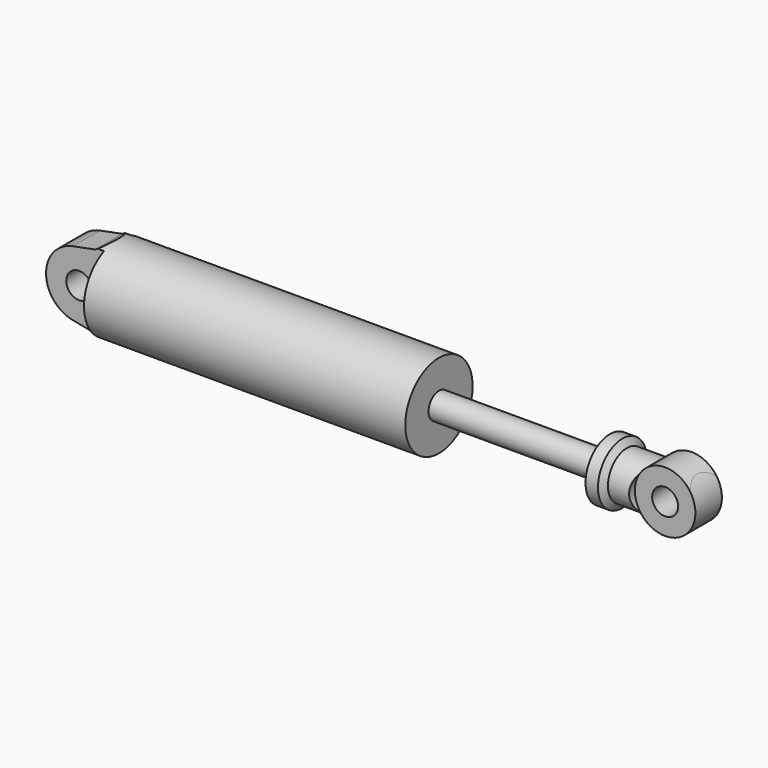
from build123d import *

# Parameters (mm, degrees)
F2_W      = 38.1
F2_H      = 63.5
F3_DEPTH  = 35.56
F4_R      = 7.9375
F5_DEPTH  = 20.828
F6_W      = 25.4
F6_H      = 25.4
F7_DEPTH  = 44.704
F8_R      = 18.542
F9_DEPTH  = 20.32
F11_DEPTH = 12.7
F13_DEPTH = 25.4
F15_DEPTH = 25.4
F16_R     = 7.9375
F17_DEPTH = 35.942


with BuildPart() as f1:
    # F0 (on Front) → F1 (revolve)
    with BuildSketch(Plane.XZ):
        Polygon((232.41, 25.781), (0, 25.781), (0, 0), (409.829, 0), (409.829, 14.605), (347.599, 14.605), (344.805, 18.7325), (337.185, 18.7325), (337.185, 8.001), (232.41, 8.001), align=None)
    revolve(axis=Axis((144.6166912608, 0, 0), (1, 0, 0)))

    # F2 (on face) → F3 (cut)
    with BuildSketch(Plane(origin=(0, 0, 0), x_dir=(0, -1, 0), z_dir=(-1, 0, 0))):
        with Locations((29.464, 0)):
            Rectangle(F2_W, F2_H)
        with Locations((-29.464, 0)):
            Rectangle(F2_W, F2_H)
    extrude(amount=-F3_DEPTH, mode=Mode.SUBTRACT)

    # F4 (on face) → F5 (cut, through all)
    with BuildSketch(Plane(origin=(0, 10.414, 0), x_dir=(-1, 0, 0), z_dir=(0, 1, 0))):
        with BuildLine():
            Line((10.16, 25.781), (-35.56, 25.781))
            Line((-35.56, 25.781), (-30.060738686, 22.606))
            Line((-30.060738686, 22.606), (-16.4254601504, 19.9432935936))
            ThreePointArc((-16.4254601504, 19.9432935936), (0, 0), (-16.4254601504, -19.9432935936))
            Line((-16.4254601504, -19.9432935936), (-30.060738686, -22.606))
            Line((-30.060738686, -22.606), (-35.56, -25.781))
            Line((-35.56, -25.781), (10.16, -25.781))
            Line((10.16, -25.781), (10.16, 25.781))
        make_face()
        with Locations((-20.32, 0)):
            Circle(F4_R)
    extrude(amount=-F5_DEPTH, mode=Mode.SUBTRACT)

    # F6 (on face) → F7 (cut)
    with BuildSketch(Plane.YZ.offset(409.829)):
        with Locations((22.86, 0)):
            Rectangle(F6_W, F6_H)
        with Locations((-22.86, 0)):
            Rectangle(F6_W, F6_H)
    extrude(amount=-F7_DEPTH, mode=Mode.SUBTRACT)

    # F8 (on face) → F9 (join, through all)
    with BuildSketch(Plane(origin=(0, 10.16, 0), x_dir=(-1, 0, 0), z_dir=(0, 1, 0))):
        with Locations((-379.095, 0)):
            Circle(F8_R)
    extrude(amount=-F9_DEPTH)

    # F10 (on Front) → F11 (cut, symmetric)
    with BuildSketch(Plane.XZ):
        with BuildLine():
            Line((409.829, 14.605), (390.5186482351, 14.605))
            ThreePointArc((390.5186482351, 14.605), (397.637, 0), (390.5186482351, -14.605))
            Line((390.5186482351, -14.605), (409.829, -14.605))
            Line((409.829, -14.605), (409.829, 14.605))
        make_face()
    extrude(amount=F11_DEPTH, both=True, mode=Mode.SUBTRACT)

    # F12 (on face) → F13 (cut)
    with BuildSketch(Plane(origin=(0, 10.16, 0), x_dir=(-1, 0, 0), z_dir=(0, 1, 0))):
        with BuildLine():
            ThreePointArc((-365.5518286226, -12.6644491804), (-360.553, 0), (-365.5518286226, 12.6644491804))
            Line((-365.5518286226, 12.6644491804), (-365.5518286226, -12.6644491804))
        make_face()
    extrude(amount=F13_DEPTH, mode=Mode.SUBTRACT)

    # F14 (on face) → F15 (cut)
    with BuildSketch(Plane.XZ.offset(10.16)):
        with BuildLine():
            Line((365.125, -12.192), (365.125, 12.192))
            ThreePointArc((365.125, 12.192), (360.553, 0), (365.125, -12.192))
        make_face()
    extrude(amount=F15_DEPTH, mode=Mode.SUBTRACT)

    # F16 (on face) → F17 (cut, through all)
    with BuildSketch(Plane.XZ.offset(10.16)):
        with Locations((379.095, 0)):
            Circle(F16_R)
    extrude(amount=-F17_DEPTH, mode=Mode.SUBTRACT)


solid = f1.part
